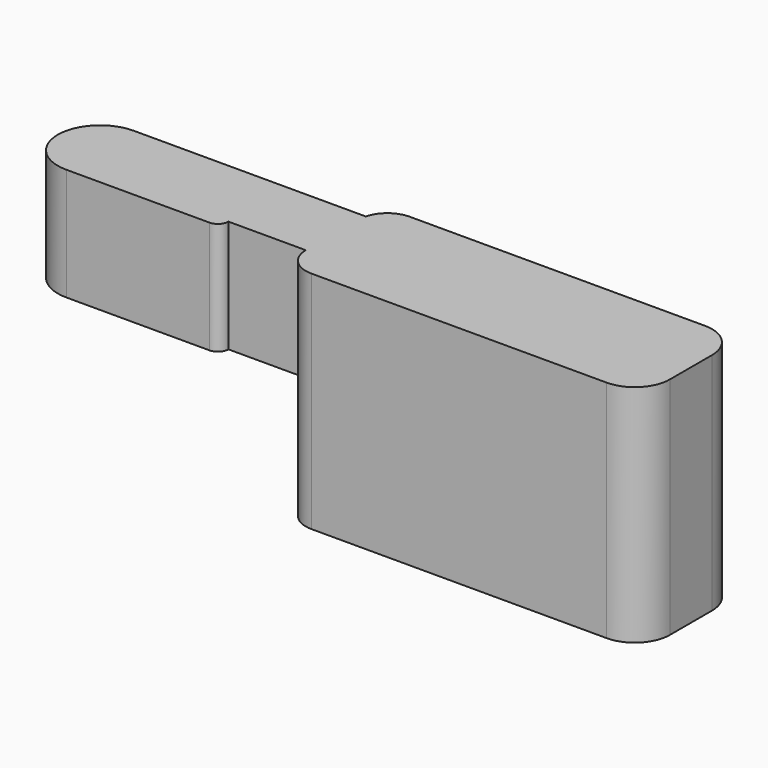
from build123d import *

# Parameters (mm, degrees)
F1_DEPTH = 32
F2_DEPTH = 16
F4_DEPTH = 3


with BuildPart() as f1:
    # F0 (on Top) → F1 (new body)
    with BuildSketch(Plane.XY):
        with BuildLine():
            Line((21.5, 8.75), (-20.5, 8.75))
            ThreePointArc((-20.5, 8.75), (-22.94949, 7.912278), (-24.372983, 5.75))
            Line((-24.372983, 5.75), (-24.5, -4.75))
            ThreePointArc((-24.5, -4.75), (-23.328427, -7.578427), (-20.5, -8.75))
            Line((-20.5, -8.75), (21.5, -8.75))
            ThreePointArc((21.5, -8.75), (25.035534, -7.285534), (26.5, -3.75))
            Line((26.5, -3.75), (26.5, 3.75))
            ThreePointArc((26.5, 3.75), (25.035534, 7.285534), (21.5, 8.75))
        make_face()
    extrude(amount=-F1_DEPTH)

    # F0 (on Top) → F2 (join)
    with BuildSketch(Plane.XY):
        with BuildLine():
            Line((-24.5, -4.75), (-24.372983, 5.75))
            Line((-24.372983, 5.75), (-57.372983, 5.75))
            ThreePointArc((-57.372983, 5.75), (-63.372983, -0.25), (-57.372983, -6.25))
            Line((-57.372983, -6.25), (-37, -6.25))
            ThreePointArc((-37, -6.25), (-35.93934, -5.81066), (-35.5, -4.75))
            Line((-35.5, -4.75), (-24.5, -4.75))
        make_face()
    extrude(amount=-F2_DEPTH)

    # F3 (on face) → F4 (join)
    with BuildSketch(Plane(origin=(0, 0, -32), x_dir=(1, 0, 0), z_dir=(0, 0, -1))):
        with BuildLine():
            ThreePointArc((-3.5, -2.5), (-1, 0), (-3.5, 2.5))
            Line((-3.5, 2.5), (-17, 2.5))
            ThreePointArc((-17, 2.5), (-19.5, 0), (-17, -2.5))
            Line((-17, -2.5), (-3.5, -2.5))
        make_face()
    extrude(amount=F4_DEPTH)


solid = f1.part
